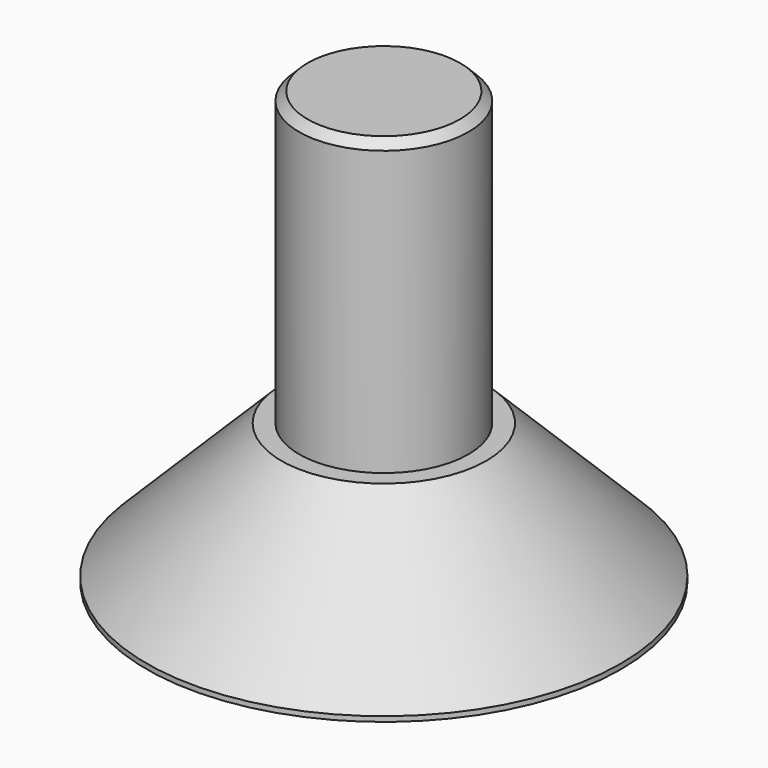
from build123d import *

# Parameters (mm, degrees)
BOX_W             = 0.2
BOX_H             = 2.5
BOX_DEPTH         = 0.5
BOX001_W          = 2.5
BOX001_H          = 0.2
BOX001_DEPTH      = 0.5
CYLINDER_R        = 2.8
CYLINDER_DEPTH    = 1.65
CYLINDER001_R     = 1
CYLINDER001_DEPTH = 5
CHAMFER_SIZE      = 1.59
CHAMFER001_SIZE   = 0.1


with BuildPart() as obj1:
    # Box → Box (new body)
    with BuildSketch(Plane(origin=(-0.1, -1.25, 0), x_dir=(1, 0, 0), z_dir=(0, 0, 1))):
        with Locations((0.1, 1.25)):
            Rectangle(BOX_W, BOX_H)
    extrude(amount=BOX_DEPTH)


with BuildPart() as fusion:
    # Box001 → Box001 (new body)
    with BuildSketch(Plane(origin=(-1.25, -0.1, 0), x_dir=(1, 0, 0), z_dir=(0, 0, 1))):
        with Locations((1.25, 0.1)):
            Rectangle(BOX001_W, BOX001_H)
    extrude(amount=BOX001_DEPTH)

    # Fusion: union obj1
    add(obj1.part)


with BuildPart() as zylinder:
    # Cylinder → Cylinder (new body)
    with BuildSketch(Plane.XY):
        Circle(CYLINDER_R)
    extrude(amount=CYLINDER_DEPTH)


with BuildPart() as screw:
    # Cylinder001 → Cylinder001 (new body)
    with BuildSketch(Plane.XY.offset(0.1)):
        Circle(CYLINDER001_R)
    extrude(amount=CYLINDER001_DEPTH)

    # Fusion001: union Zylinder
    add(zylinder.part)

    # Cut: cut Fusion
    add(fusion.part, mode=Mode.SUBTRACT)

    # Chamfer
    chamfer_edges = [screw.edges().sort_by_distance(p)[0] for p in [
        (-2.8, 0, 1.65),
    ]]
    chamfer(chamfer_edges, length=CHAMFER_SIZE)

    # Chamfer001
    chamfer001_edges = [screw.edges().sort_by_distance(p)[0] for p in [
        (-1, 0, 5.1),
    ]]
    chamfer(chamfer001_edges, length=CHAMFER001_SIZE)


solid = screw.part
